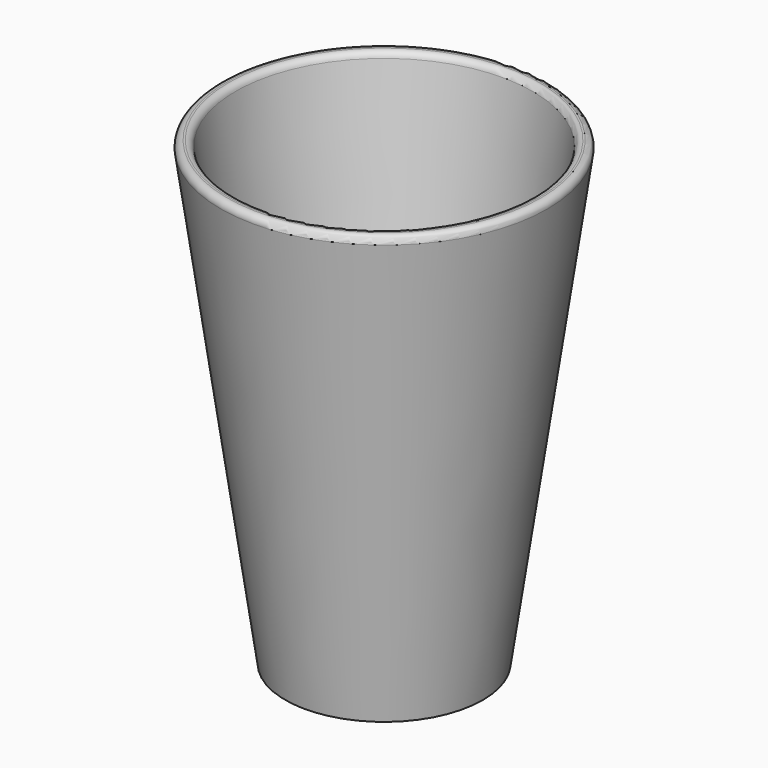
from build123d import *

# Parameters (mm, degrees)
FILLET_R = 1


with BuildPart() as obj1_interior:
    # Cone001 → Cone001 (revolve)
    with BuildSketch(Plane(origin=(0, 0, 2), x_dir=(1, 0, 0), z_dir=(0, -1, 0))):
        Polygon((0, 0), (13, 0), (23, 70), (0, 70), align=None)
    revolve(axis=Axis((0, 0, 2), (0, 0, 1)))


with BuildPart() as obj1:
    # Cone → Cone (revolve)
    with BuildSketch(Plane.XZ):
        Polygon((0, 0), (15, 0), (25, 70), (0, 70), align=None)
    revolve(axis=Axis((0, 0, 0), (0, 0, 1)))

    # Cut: cut obj1_interior
    add(obj1_interior.part, mode=Mode.SUBTRACT)

    # Fillet
    fillet_edges = [obj1.edges().sort_by_distance(p)[0] for p in [
        (-25, 0, 70),
        (-22.714286, 0, 70),
    ]]
    fillet(fillet_edges, radius=FILLET_R)


solid = obj1.part
